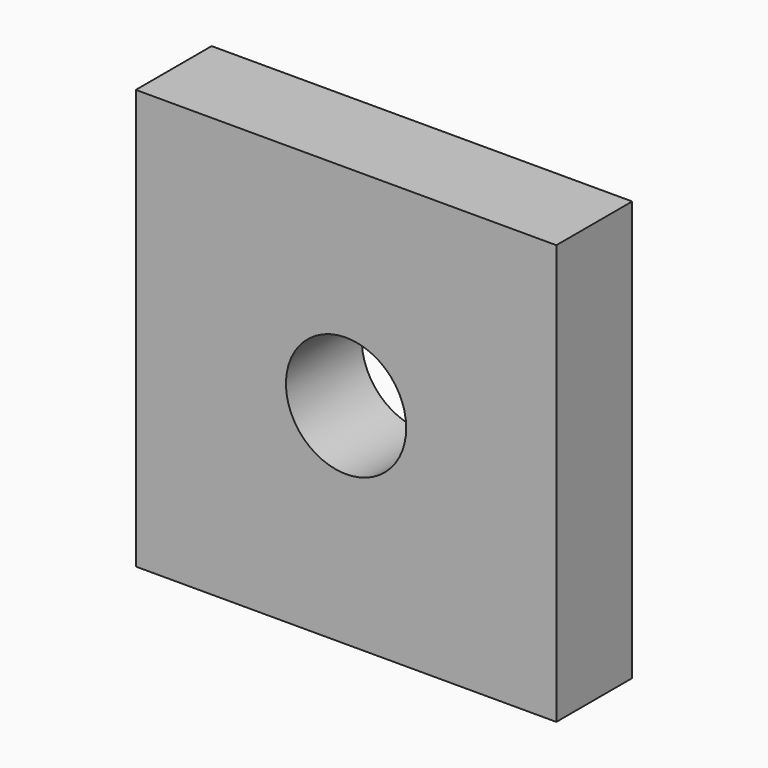
from build123d import *

# Parameters (mm, degrees)
F1_W     = 22.183892
F1_H     = 22.13791
F2_DEPTH = 5
F0_R     = 3.171744
F3_DEPTH = 25


with BuildPart() as f2:
    # F1 (on Front) → F2 (new body)
    with BuildSketch(Plane.XZ):
        Rectangle(F1_W, F1_H)
    extrude(amount=F2_DEPTH)

    # F0 (on Front) → F3 (cut)
    with BuildSketch(Plane.XZ):
        Circle(F0_R)
    extrude(amount=F3_DEPTH, mode=Mode.SUBTRACT)


solid = f2.part
